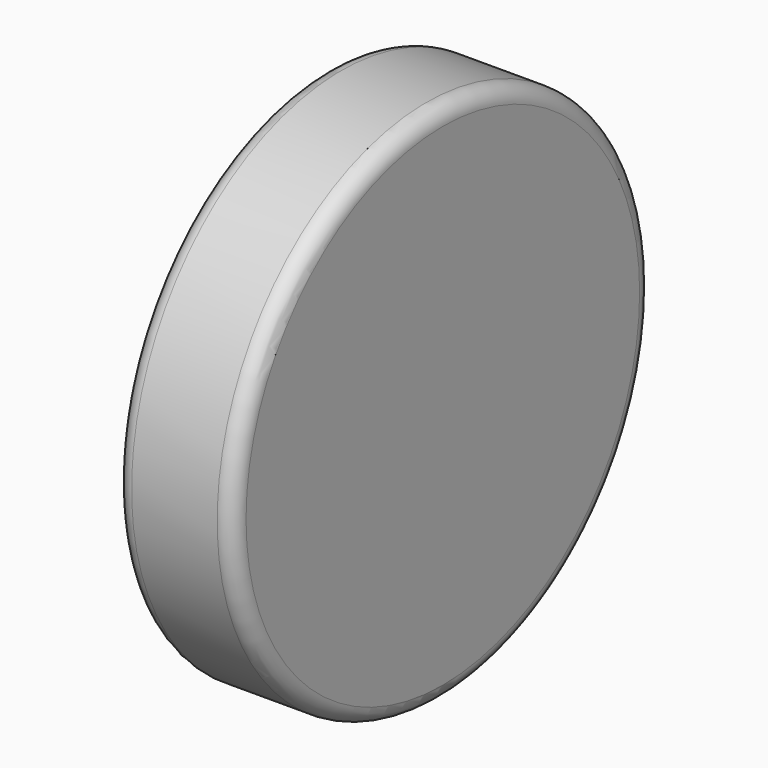
from build123d import *

# Parameters (mm, degrees)
F0_R     = 1225
F1_DEPTH = 275
F2_R     = 75
F4_ANGLE = 90


with BuildPart() as f1:
    # F0 (on Front) → F1 (new body, symmetric)
    with BuildSketch(Plane.XZ):
        Circle(F0_R)
    extrude(amount=F1_DEPTH, both=True)

    # F2
    f2_edges = [f1.edges().sort_by_distance(p)[0] for p in [
        (-1225, -275, 0),
        (-1225, 275, 0),
    ]]
    fillet(f2_edges, radius=F2_R)


with BuildPart() as f1_1:
    # F4: moved
    add(f1.part.rotate(Axis((0, 0, 383.4756016731), (0, 0, 1)), F4_ANGLE))


solid = f1_1.part
